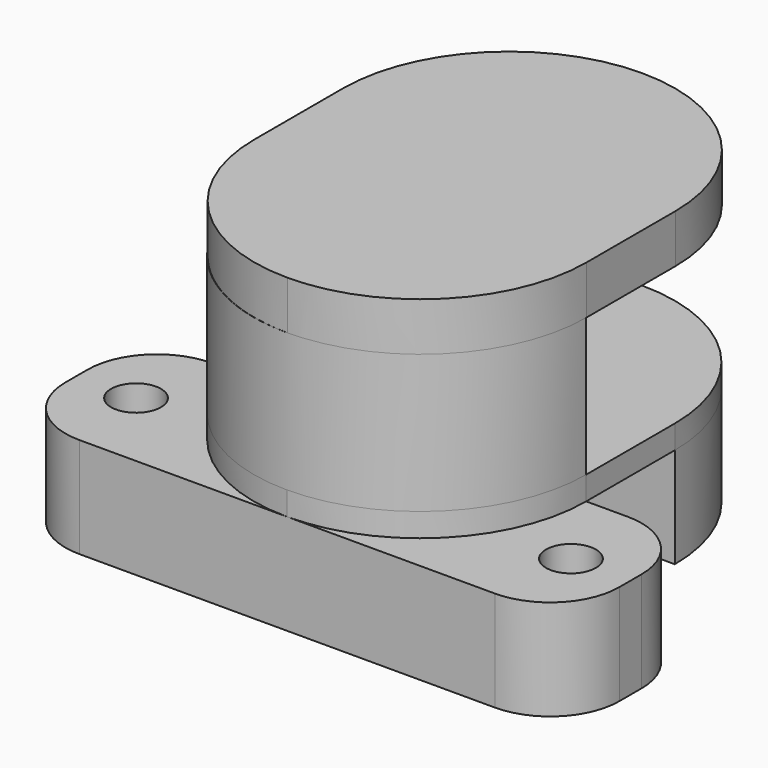
from build123d import *

# Parameters (mm, degrees)
F0_R     = 1.8
F1_DEPTH = 7.25
F3_DEPTH = 1.7
F5_DEPTH = 7.25
F7_DEPTH = 10
F9_DEPTH = 3.5


with BuildPart() as f1:
    # F0 (on Top) → F1 (new body)
    with BuildSketch(Plane.XY):
        with BuildLine():
            Line((14.57509, -8.485134), (-15.42491, -8.485134))
            ThreePointArc((-15.42491, -8.485134), (-18.960444, -9.9496), (-20.42491, -13.485134))
            Line((-20.42491, -13.485134), (-20.42491, -15.485134))
            ThreePointArc((-20.42491, -15.485134), (-18.960444, -19.020668), (-15.42491, -20.485134))
            Line((-15.42491, -20.485134), (14.57509, -20.485134))
            ThreePointArc((14.57509, -20.485134), (18.110624, -19.020668), (19.57509, -15.485134))
            Line((19.57509, -15.485134), (19.57509, -13.485134))
            ThreePointArc((19.57509, -13.485134), (18.110624, -9.9496), (14.57509, -8.485134))
        make_face()
        with Locations((-16.12491, -14.485134)):
            Circle(F0_R, mode=Mode.SUBTRACT)
        with Locations((15.27509, -14.485134)):
            Circle(F0_R, mode=Mode.SUBTRACT)
    extrude(amount=F1_DEPTH)

    # F2 (on face) → F3 (join)
    with BuildSketch(Plane.XY.offset(7.25)):
        with BuildLine():
            Line((-12.42491, -0.485134), (-12.42491, -8.485134))
            ThreePointArc((-12.42491, -8.485134), (-8.910192, -16.970415), (-0.42491, -20.485134))
            ThreePointArc((-0.42491, -20.485134), (8.060371, -16.970415), (11.57509, -8.485134))
            Line((11.57509, -8.485134), (11.57509, -0.485134))
            ThreePointArc((11.57509, -0.485134), (8.060371, 8.000148), (-0.42491, 11.514866))
            ThreePointArc((-0.42491, 11.514866), (-8.910192, 8.000148), (-12.42491, -0.485134))
        make_face()
    extrude(amount=F3_DEPTH)

    # F4 (on face) → F5 (join)
    with BuildSketch(Plane(origin=(0, 0, 7.25), x_dir=(1, 0, 0), z_dir=(0, 0, -1))):
        with BuildLine():
            Line((11.57509, 0.485134), (-12.42491, 0.485134))
            ThreePointArc((-12.42491, 0.485134), (-0.42491, -11.514866), (11.57509, 0.485134))
        make_face()
    extrude(amount=F5_DEPTH)

    # F6 (on face) → F7 (join)
    with BuildSketch(Plane.XY.offset(8.95)):
        with BuildLine():
            Line((11.57509, -8.485134), (-12.42491, -8.485134))
            ThreePointArc((-12.42491, -8.485134), (-0.42491, -20.485134), (11.57509, -8.485134))
        make_face()
    extrude(amount=F7_DEPTH)

    # F8 (on face) → F9 (join)
    with BuildSketch(Plane.XY.offset(18.95)):
        with BuildLine():
            ThreePointArc((-0.394389, 11.517738), (-8.87967, 8.003019), (-12.394389, -0.482262))
            Line((-12.394389, -0.482262), (-12.394389, -8.482262))
            ThreePointArc((-12.394389, -8.482262), (-8.87967, -16.967543), (-0.394389, -20.482262))
            ThreePointArc((-0.394389, -20.482262), (8.090893, -16.967543), (11.605611, -8.482262))
            Line((11.605611, -8.482262), (11.605611, -0.482262))
            ThreePointArc((11.605611, -0.482262), (8.090893, 8.003019), (-0.394389, 11.517738))
        make_face()
    extrude(amount=F9_DEPTH)


solid = f1.part
